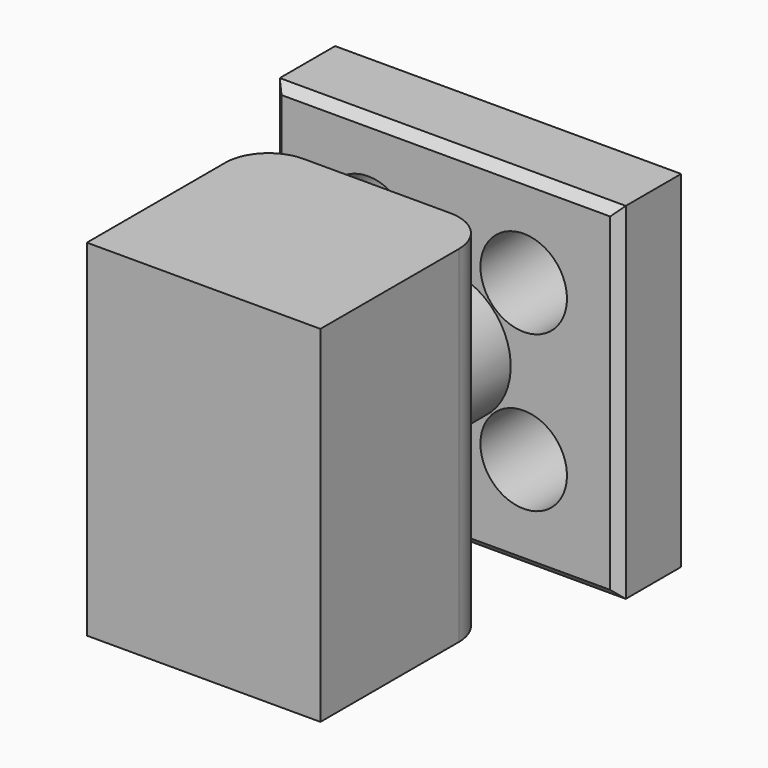
from build123d import *

# Parameters (mm, degrees)
F0_W     = 27
F0_H     = 25
F1_DEPTH = 40
F2_R     = 5
F3_R     = 7.5
F4_DEPTH = 10
F5_W     = 40
F5_H     = 40
F6_DEPTH = 10
F7_SIZE  = 1
F8_R     = 5
F9_DEPTH = 10


with BuildPart() as f1:
    # F0 (on Top) → F1 (new body)
    with BuildSketch(Plane.XY):
        with Locations((0, 12.5)):
            Rectangle(F0_W, F0_H)
    extrude(amount=F1_DEPTH)

    # F2
    f2_edges = [f1.edges().sort_by_distance(p)[0] for p in [
        (13.5, 25, 20),
        (-13.5, 25, 20),
    ]]
    fillet(f2_edges, radius=F2_R)

    # F3 (on face) → F4 (join)
    with BuildSketch(Plane(origin=(0, 25, 0), x_dir=(-1, 0, 0), z_dir=(0, 1, 0))):
        with Locations((0, 20)):
            Circle(F3_R)
    extrude(amount=F4_DEPTH)

    # F5 (on face) → F6 (join)
    with BuildSketch(Plane(origin=(0, 35, 0), x_dir=(-1, 0, 0), z_dir=(0, 1, 0))):
        with Locations((0, 20)):
            Rectangle(F5_W, F5_H)
    extrude(amount=F6_DEPTH)

    # F7
    f7_edges = [f1.edges().sort_by_distance(p)[0] for p in [
        (-20, 45, 20),
        (0, 45, 40),
        (20, 45, 20),
        (0, 45, 0),
        (-20, 35, 20),
        (0, 35, 40),
        (0, 35, 0),
        (20, 35, 20),
    ]]
    chamfer(f7_edges, length=F7_SIZE)

    # F8 (on face) → F9 (cut)
    with BuildSketch(Plane(origin=(0, 45, 0), x_dir=(-1, 0, 0), z_dir=(0, 1, 0))):
        with Locations((-9, 29)):
            Circle(F8_R)
        with Locations((9, 29)):
            Circle(F8_R)
        with Locations((-9, 11)):
            Circle(F8_R)
        with Locations((9, 11)):
            Circle(F8_R)
    extrude(amount=-F9_DEPTH, mode=Mode.SUBTRACT)


solid = f1.part
